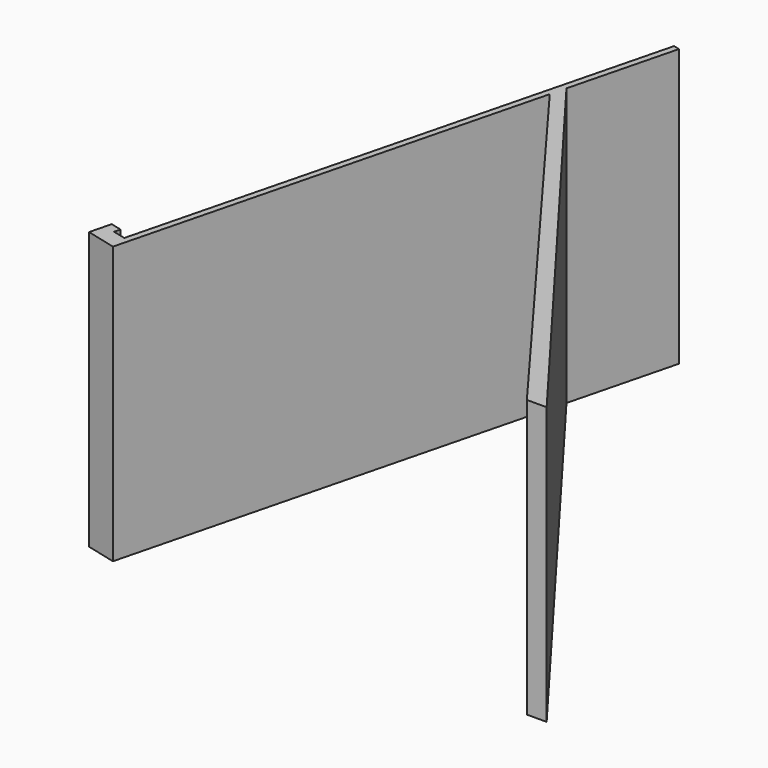
from build123d import *

# Parameters (mm, degrees)
F1_DEPTH = 70


with BuildPart() as f1:
    # F0 (on Top) → F1 (new body)
    with BuildSketch(Plane.XY):
        Polygon((-53.090672, -65.789246), (-45.524913, -67.711686), (-18.916096, 37.007269), (59.177905, -67.84258), (64.177905, -67.84258), (-17.897495, 41.015974), (-11.04691, 67.976439), (-12.597631, 68.370474), (-46.085725, -63.421866), (-49.307792, -62.603147), (-48.913758, -61.052425), (-51.708323, -60.349014), (-52.100763, -61.89346), align=None)
    extrude(amount=-F1_DEPTH)


solid = f1.part
